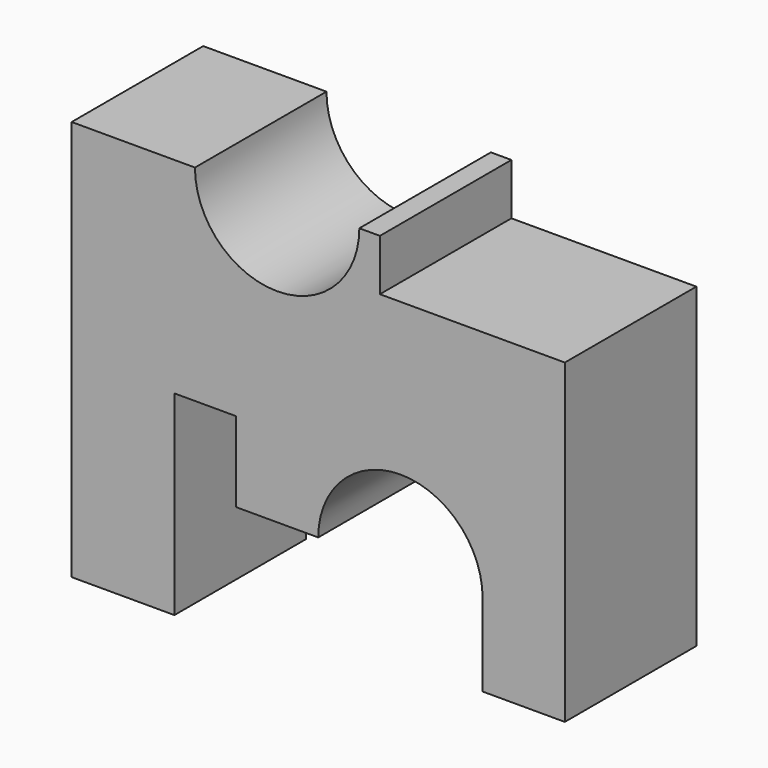
from build123d import *

# Parameters (mm, degrees)
F1_DEPTH = 50.8


with BuildPart() as f1:
    # F0 (on Front) → F1 (new body)
    with BuildSketch(Plane.XZ):
        with BuildLine():
            Line((0, 123.825), (0, 0))
            Line((0, 0), (31.75, 0))
            Line((31.75, 0), (31.75, 60.325))
            Line((31.75, 60.325), (50.8, 60.325))
            Line((50.8, 60.325), (50.8, 35.57891))
            Line((50.8, 35.57891), (76.2, 35.57891))
            ThreePointArc((76.2, 35.57891), (101.6, 60.97891), (127, 35.57891))
            Line((127, 35.57891), (127, 10.17891))
            Line((127, 10.17891), (152.4, 10.17891))
            Line((152.4, 10.17891), (152.4, 107.95))
            Line((152.4, 107.95), (95.25, 107.95))
            Line((95.25, 107.95), (95.25, 123.825))
            Line((95.25, 123.825), (88.9, 123.825))
            ThreePointArc((88.9, 123.825), (63.5, 98.425), (38.1, 123.825))
            Line((38.1, 123.825), (0, 123.825))
        make_face()
    extrude(amount=F1_DEPTH)


solid = f1.part
